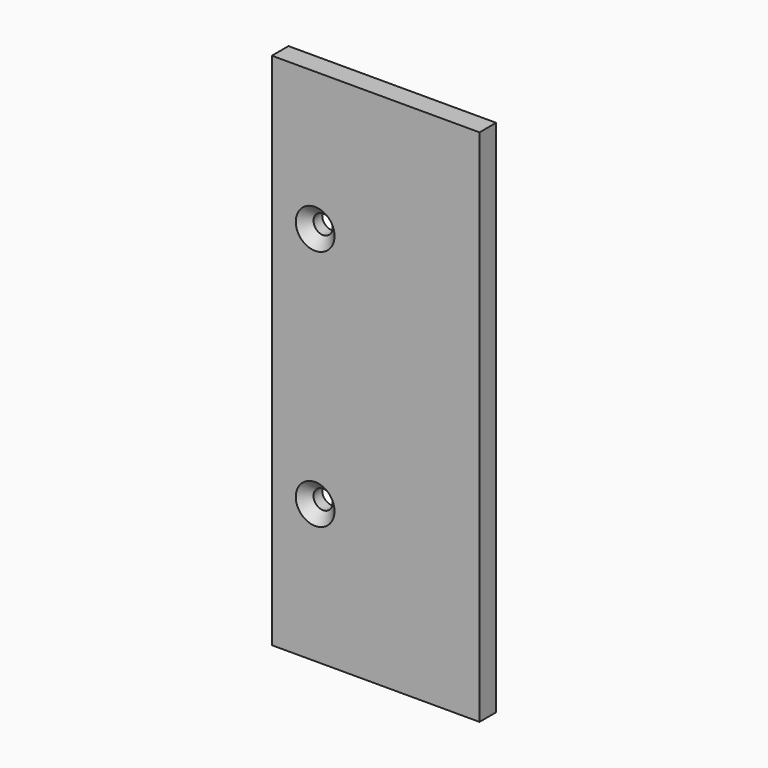
from build123d import *

# Parameters (mm, degrees)
F0_W           = 60
F0_H           = 150
F1_DEPTH       = 6
F2_D           = 5.5
F2_CSINK_D     = 11.2
F2_CSINK_ANGLE = 90


with BuildPart() as f1:
    # F0 (on Front) → F1 (new body)
    with BuildSketch(Plane.XZ):
        with Locations((30, 11.549320817)):
            Rectangle(F0_W, F0_H)
    extrude(amount=-F1_DEPTH)

    # F2 (through all)
    with Locations(Plane.XZ):
        with Locations((12.5, 46.549320817), (12.5, -23.450679183)):
            CounterSinkHole(F2_D / 2, F2_CSINK_D / 2, counter_sink_angle=F2_CSINK_ANGLE)


solid = f1.part
